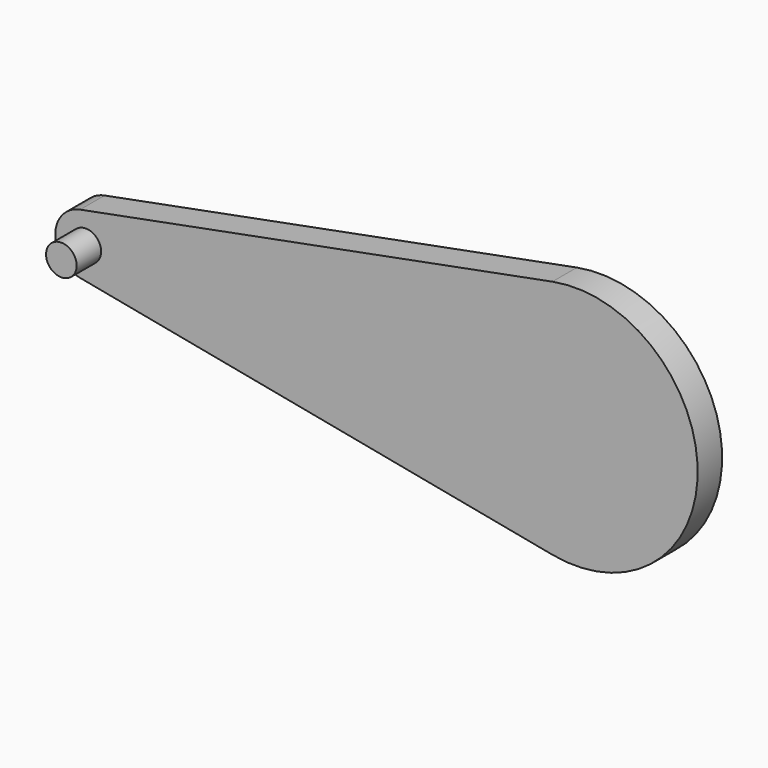
from build123d import *

# Parameters (mm, degrees)
F1_DEPTH = 3.175
F2_R     = 1.5875
F3_DEPTH = 3.175


with BuildPart() as f1:
    # F0 (on Front) → F1 (new body)
    with BuildSketch(Plane.XZ):
        with BuildLine():
            ThreePointArc((-67.620678, 0), (-68.772004, 2.446502), (-71.39099, 3.11869))
            ThreePointArc((-71.39099, 3.11869), (-73.970678, 0), (-71.39099, -3.11869))
            ThreePointArc((-71.39099, -3.11869), (-68.772004, -2.446502), (-67.620678, 0))
        make_face()
        with BuildLine():
            Line((-22.376928, 12.47476), (-71.39099, 3.11869))
            ThreePointArc((-71.39099, 3.11869), (-68.772004, 2.446502), (-67.620678, 0))
            ThreePointArc((-67.620678, 0), (-68.772004, -2.446502), (-71.39099, -3.11869))
            Line((-71.39099, -3.11869), (-22.376928, -12.47476))
            ThreePointArc((-22.376928, -12.47476), (-7.295678, 0), (-22.376928, 12.47476))
        make_face()
    extrude(amount=F1_DEPTH)

    # F2 (on face) → F3 (join)
    with BuildSketch(Plane.XZ.offset(3.175)):
        with Locations((-70.795678, 0)):
            Circle(F2_R)
    extrude(amount=F3_DEPTH)


solid = f1.part
